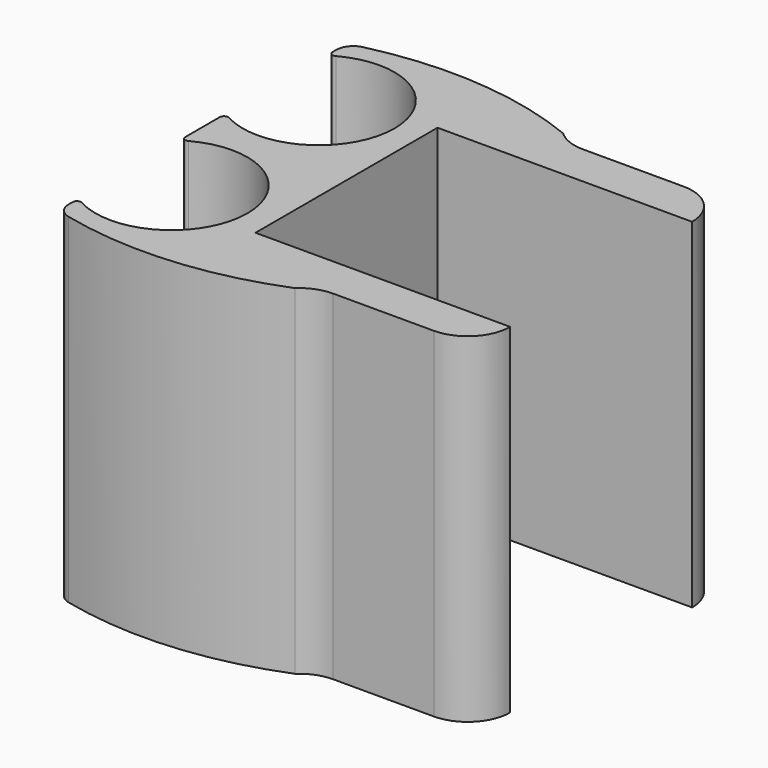
from build123d import *

# Parameters (mm, degrees)
F1_DEPTH = 40


with BuildPart() as f1:
    # F0 (on Top) → F1 (new body)
    with BuildSketch(Plane.XY):
        with BuildLine():
            Line((-17.273348, -13.4), (-17.273348, 13.4))
            Line((-17.273348, 13.4), (12.726652, 13.4))
            ThreePointArc((12.726652, 13.4), (11.262186, 16.935534), (7.726652, 18.4))
            Line((7.726652, 18.4), (-4.138403, 18.4))
            ThreePointArc((-4.138403, 18.4), (-5.972575, 18.748568), (-7.551012, 19.745673))
            ThreePointArc((-7.551012, 19.745673), (-19.97416, 22.64949), (-32.692765, 21.647566))
            ThreePointArc((-32.692765, 21.647566), (-33.800337, 20.941941), (-34.231494, 19.701486))
            Line((-34.231494, 19.701486), (-34.231494, 19.139386))
            ThreePointArc((-34.231494, 19.139386), (-33.987166, 18.709698), (-33.492967, 18.699949))
            ThreePointArc((-33.492967, 18.699949), (-20.273348, 10.834169), (-33.492704, 2.967946))
            ThreePointArc((-33.492704, 2.967946), (-33.986895, 2.958185), (-34.231216, 2.528501))
            Line((-34.231216, 2.528501), (-34.231216, -2.528501))
            ThreePointArc((-34.231216, -2.528501), (-33.986895, -2.958185), (-33.492704, -2.967946))
            ThreePointArc((-33.492704, -2.967946), (-20.273348, -10.834169), (-33.492967, -18.699949))
            ThreePointArc((-33.492967, -18.699949), (-33.987166, -18.709698), (-34.231494, -19.139386))
            Line((-34.231494, -19.139386), (-34.231494, -19.701486))
            ThreePointArc((-34.231494, -19.701486), (-33.800337, -20.941941), (-32.692765, -21.647566))
            ThreePointArc((-32.692765, -21.647566), (-19.97416, -22.64949), (-7.551012, -19.745673))
            ThreePointArc((-7.551012, -19.745673), (-5.972575, -18.748568), (-4.138403, -18.4))
            Line((-4.138403, -18.4), (7.726652, -18.4))
            ThreePointArc((7.726652, -18.4), (11.262186, -16.935534), (12.726652, -13.4))
            Line((12.726652, -13.4), (-17.273348, -13.4))
        make_face()
    extrude(amount=F1_DEPTH)


solid = f1.part
